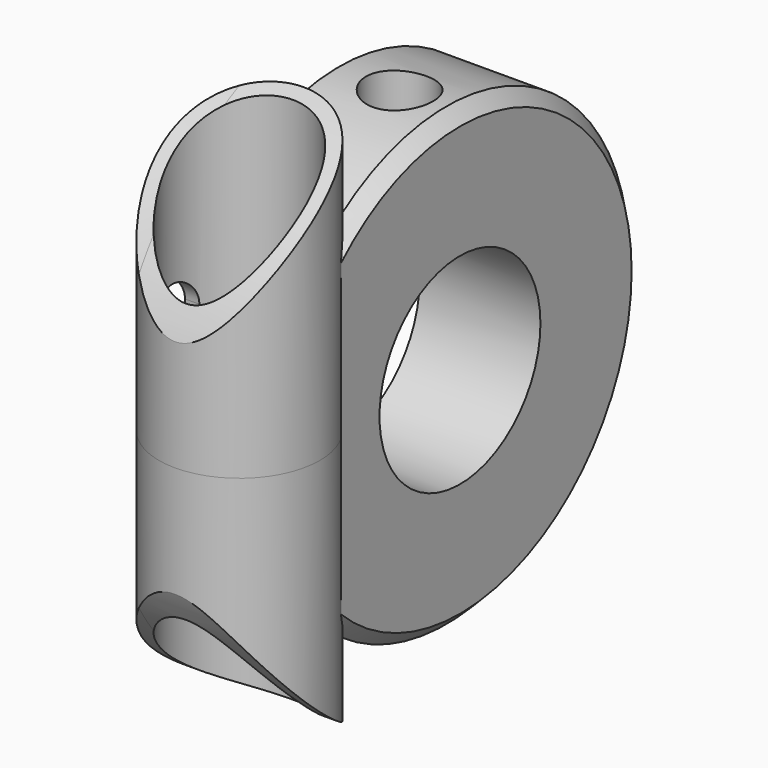
from build123d import *

# Parameters (mm, degrees)
F0_R           = 17
F0_R_2         = 7.5
F1_DEPTH       = 9
F3_SIZE        = 1
F2_R           = 2.5
F4_DEPTH       = 25
F5_R           = 6
F6_DEPTH       = 25
F6_DEPTH_BACK  = 25
F7_R           = 36.9830222821
F7_R_2         = 21.65
F8_DEPTH       = 25
F8_DEPTH_BACK  = 25
F9_R           = 5
F10_DEPTH      = 25
F10_DEPTH_BACK = 25
F12_DEPTH      = 25


with BuildPart() as f1:
    # F0 (on Right) → F1 (new body)
    with BuildSketch(Plane.YZ):
        Circle(F0_R)
        Circle(F0_R_2, mode=Mode.SUBTRACT)
    extrude(amount=F1_DEPTH)

    # F3
    f3_edges = [f1.edges().sort_by_distance(p)[0] for p in [
        (9, -17, 0),
    ]]
    chamfer(f3_edges, length=F3_SIZE)

    # F2 (on Top) → F4 (cut)
    with BuildSketch(Plane.XY):
        with Locations((4.5, 0)):
            Circle(F2_R)
    extrude(amount=F4_DEPTH, mode=Mode.SUBTRACT)

    # F5 (on Top) → F6 (join, two sides)
    with BuildSketch(Plane.XY) as f6_sk:
        with Locations((3.75, -14)):
            Circle(F5_R)
    extrude(amount=F6_DEPTH)
    extrude(f6_sk.sketch, amount=-F6_DEPTH_BACK)

    # F7 (on Right) → F8 (cut, two sides)
    with BuildSketch(Plane.YZ) as f8_sk:
        Circle(F7_R)
        Circle(F7_R_2, mode=Mode.SUBTRACT)
    extrude(amount=F8_DEPTH, mode=Mode.SUBTRACT)
    extrude(f8_sk.sketch, amount=-F8_DEPTH_BACK, mode=Mode.SUBTRACT)

    # F9 (on Top) → F10 (cut, two sides)
    with BuildSketch(Plane.XY) as f10_sk:
        with Locations((3.75, -14)):
            Circle(F9_R)
    extrude(amount=-F10_DEPTH, mode=Mode.SUBTRACT)
    extrude(f10_sk.sketch, amount=F10_DEPTH_BACK, mode=Mode.SUBTRACT)

    # F11 (on Right) → F12 (cut)
    with BuildSketch(Plane.YZ):
        with BuildLine():
            Line((-12, -6), (-12, 6))
            ThreePointArc((-12, 6), (-14, 8), (-16, 6))
            Line((-16, 6), (-16, -6))
            ThreePointArc((-16, -6), (-14, -8), (-12, -6))
        make_face()
    extrude(amount=-F12_DEPTH, mode=Mode.SUBTRACT)


solid = f1.part
